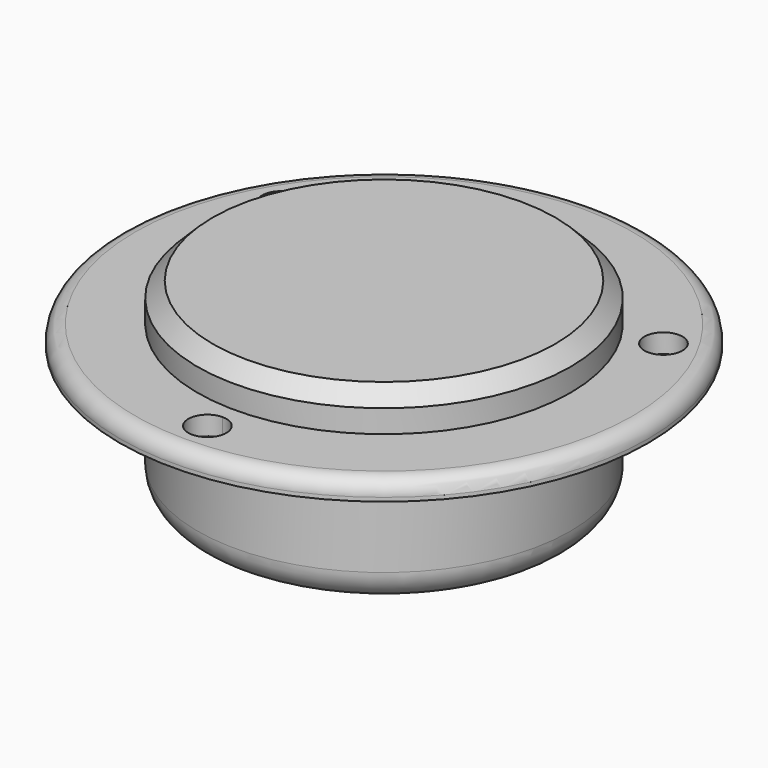
from build123d import *

# Parameters (mm, degrees)
F0_R     = 44.069
F0_R_2   = 31.115
F1_DEPTH = 3.175
F2_R     = 2.54
F3_R     = 3.175
F4_DEPTH = 25.4
F5_R     = 31.115
F6_DEPTH = 25.4
F7_R     = 5.08
F8_DEPTH = 6.35
F9_SIZE  = 2.54


with BuildPart() as f1:
    # F0 (on Top) → F1 (new body)
    with BuildSketch(Plane.XY):
        Circle(F0_R)
        Circle(F0_R_2, mode=Mode.SUBTRACT)
    extrude(amount=F1_DEPTH)

    # F2
    f2_edges = [f1.edges().sort_by_distance(p)[0] for p in [
        (-44.069, 0, 3.175),
    ]]
    fillet(f2_edges, radius=F2_R)

    # F3 (on face) → F4 (cut)
    with BuildSketch(Plane.XY.offset(3.175)):
        with Locations((-31.8957156214, 18.415)):
            Circle(F3_R)
        with Locations((31.8957156214, 18.415)):
            Circle(F3_R)
        with BuildLine():
            ThreePointArc((3.175, -36.83), (2.2450640303, -34.5849359697), (0, -33.655))
            ThreePointArc((0, -33.655), (-2.2450640303, -39.0750640303), (3.175, -36.83))
        make_face()
    extrude(amount=-F4_DEPTH, mode=Mode.SUBTRACT)


with BuildPart() as f6:
    # F5 (on face) → F6 (new body)
    with BuildSketch(Plane.XY.offset(3.175)):
        Circle(F5_R)
    extrude(amount=-F6_DEPTH)

    # F7
    f7_edges = [f6.edges().sort_by_distance(p)[0] for p in [
        (-31.115, 0, -22.225),
    ]]
    fillet(f7_edges, radius=F7_R)

    # F8 (add): a face of the model
    f8_faces = [f6.faces().sort_by_distance(p)[0] for p in [
        (0, 0, 3.175),
    ]]
    extrude(f8_faces, amount=F8_DEPTH)

    # F9
    f9_edges = [f6.edges().sort_by_distance(p)[0] for p in [
        (-31.115, 0, 9.525),
    ]]
    chamfer(f9_edges, length=F9_SIZE)


solid = Compound([f1.part, f6.part])
